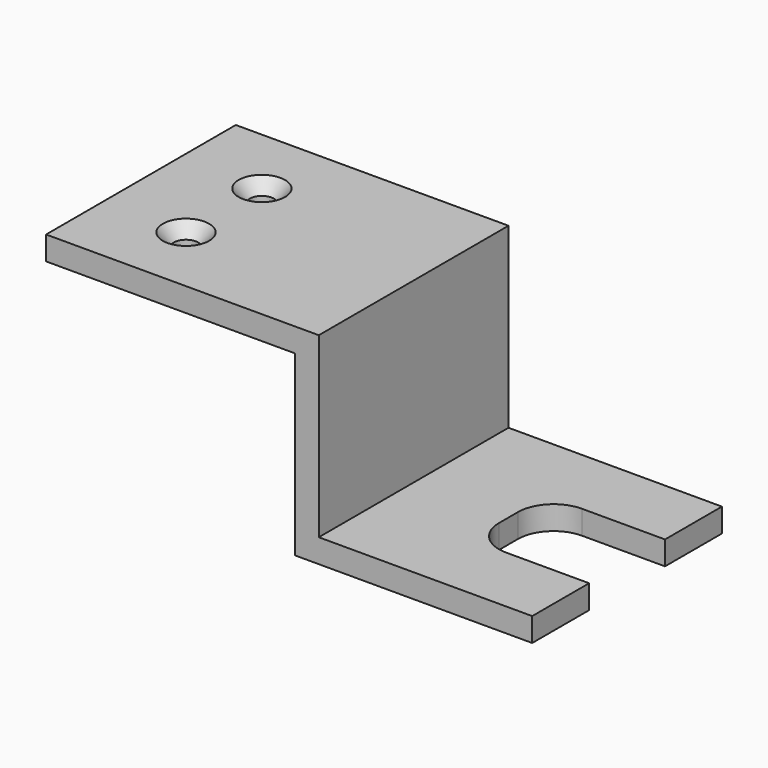
from build123d import *

# Parameters (mm, degrees)
F0_W           = 106.68
F0_H           = 10.16
F2_DEPTH       = 50.8
F2_DEPTH_BACK  = 50.8
F1_W           = 50.8
F1_H           = 40.64
F4_DEPTH       = 10.16
F5_D           = 10.3124
F5_CSINK_D     = 19.8374
F5_CSINK_ANGLE = 82
F6_R           = 15.24


with BuildPart() as f2:
    # F0 (on Front) → F2 (new body, two sides)
    with BuildSketch(Plane.XZ) as f2_sk:
        Polygon((0, 76.2), (0, 10.16), (10.16, 10.16), (10.16, 86.36), (0, 86.36), align=None)
        Polygon((10.16, 10.16), (0, 10.16), (0, 0), (101.6, 0), (101.6, 10.16), align=None)
        with Locations((-53.34, 81.28)):
            Rectangle(F0_W, F0_H)
    extrude(amount=-F2_DEPTH)
    extrude(f2_sk.sketch, amount=F2_DEPTH_BACK)

    # F1 (on Top) → F4 (cut, through all)
    with BuildSketch(Plane.XY):
        with Locations((76.2, 0)):
            Rectangle(F1_W, F1_H)
    extrude(amount=F4_DEPTH, mode=Mode.SUBTRACT)

    # F5 (through all)
    with Locations(Plane.XY.offset(86.36)):
        with Locations((-71.12, -20.32), (-71.12, 20.32)):
            CounterSinkHole(F5_D / 2, F5_CSINK_D / 2, counter_sink_angle=F5_CSINK_ANGLE)

    # F6
    f6_edges = [f2.edges().sort_by_distance(p)[0] for p in [
        (50.8, 20.32, 5.08),
        (50.8, -20.32, 5.08),
    ]]
    fillet(f6_edges, radius=F6_R)


solid = f2.part
